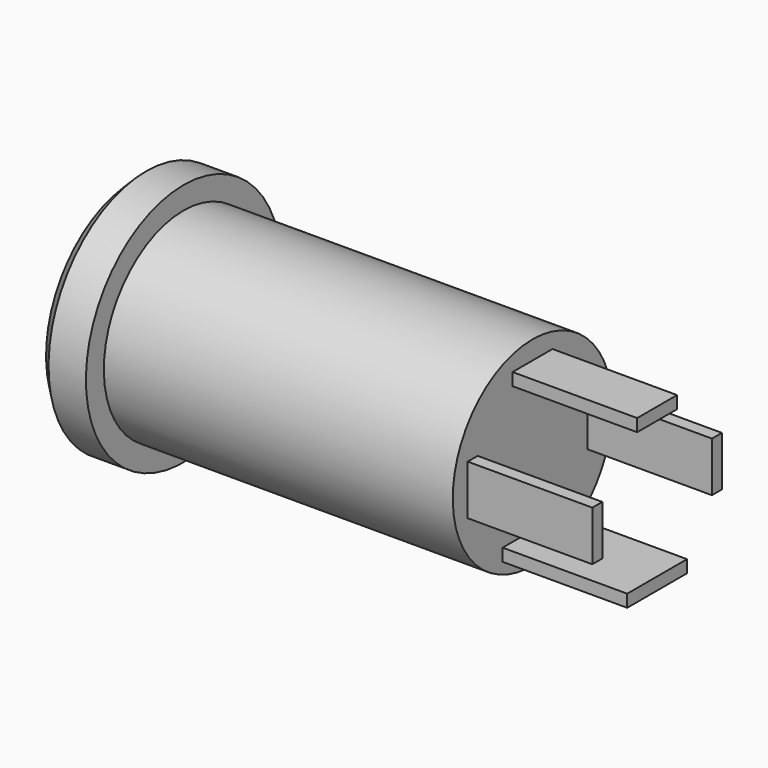
from build123d import *

# Parameters (mm, degrees)
SKETCH001_W   = 3
SKETCH001_H   = 0.5
SKETCH001_W_2 = 2
SKETCH001_W_3 = 0.5
SKETCH001_H_2 = 2
PAD_DEPTH     = 5
SKETCH002_R   = 2
POCKET_DEPTH  = 12
CHAMFER_SIZE  = 0.5


with BuildPart() as part:
    # Sketch → Revolution (revolve)
    with BuildSketch(Plane.XZ):
        Polygon((0, 0), (0, 4.9), (2, 4.9), (2, 4), (16, 4), (16, 0), align=None)
    revolve(axis=Axis((0, 0, 0), (1, 0, 0)))

    # Sketch001 → Pad (new body)
    with BuildSketch(Plane.YZ.offset(16)):
        with Locations((0, -3)):
            Rectangle(SKETCH001_W, SKETCH001_H)
        with Locations((0, 3)):
            Rectangle(SKETCH001_W_2, SKETCH001_H)
        with Locations((3, 0)):
            Rectangle(SKETCH001_W_3, SKETCH001_H_2)
        with Locations((-3, 0)):
            Rectangle(SKETCH001_W_3, SKETCH001_H_2)
    extrude(amount=PAD_DEPTH)

    # Sketch002 → Pocket (cut)
    with BuildSketch(Plane.YZ):
        Circle(SKETCH002_R)
    extrude(amount=POCKET_DEPTH, mode=Mode.SUBTRACT)

    # Chamfer
    chamfer_edges = [part.edges().sort_by_distance(p)[0] for p in [
        (0, 0, -4.9),
        (0, -2, 0),
    ]]
    chamfer(chamfer_edges, length=CHAMFER_SIZE)


solid = part.part
